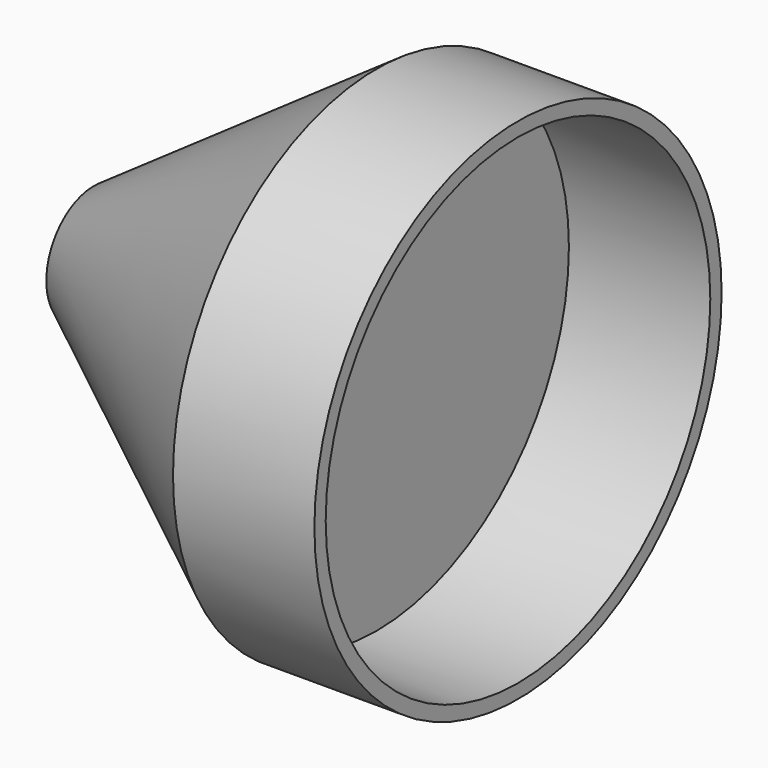
from build123d import *

# Parameters (mm, degrees)
F0_R     = 2.1
F2_R     = 9
F4_R     = 1.6
F5_DEPTH = 5
F6_DEPTH = 5
F7_R     = 8.5
F8_DEPTH = 5


with BuildPart() as f3:
    # F0 (on Right) → F3 section 0
    with BuildSketch(Plane.YZ):
        Circle(F0_R)
    # F2 (on offset) → F3 section 1
    with BuildSketch(Plane.YZ.offset(10)):
        Circle(F2_R)
    loft()

    # F4 (on face) → F5 (cut)
    with BuildSketch(Plane(origin=(0, 0, 0), x_dir=(0, -1, 0), z_dir=(-1, 0, 0))):
        Circle(F4_R)
    extrude(amount=-F5_DEPTH, mode=Mode.SUBTRACT)

    # F2 (on offset) → F6 (join)
    with BuildSketch(Plane.YZ.offset(10)):
        Circle(F2_R)
    extrude(amount=F6_DEPTH)

    # F7 (on face) → F8 (cut)
    with BuildSketch(Plane.YZ.offset(15)):
        Circle(F7_R)
    extrude(amount=-F8_DEPTH, mode=Mode.SUBTRACT)


solid = f3.part
